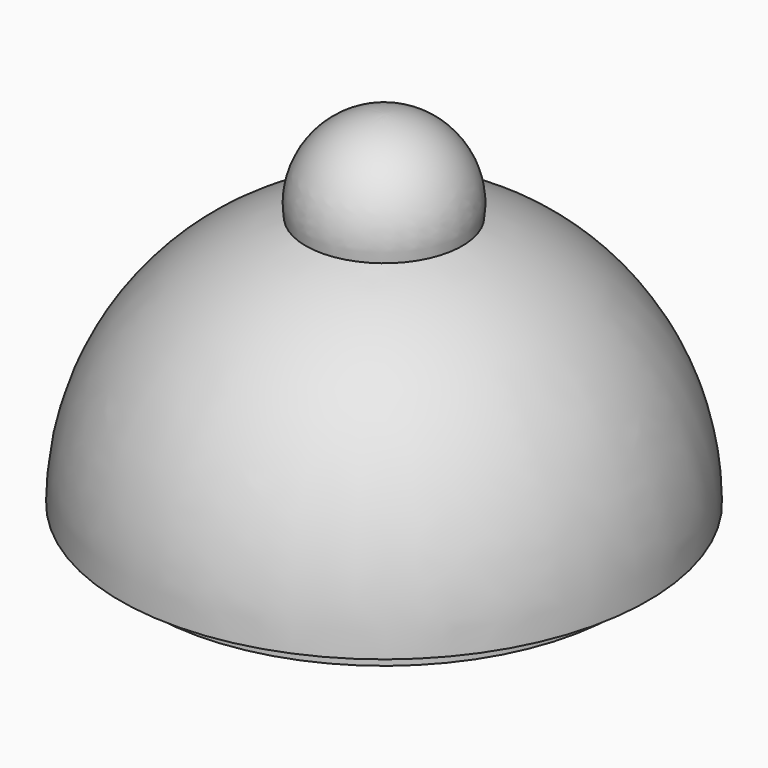
from build123d import *


with BuildPart() as f1:
    # F0 (on Front) → F1 (revolve)
    with BuildSketch(Plane.XZ):
        with BuildLine():
            ThreePointArc((0, 32.5), (-5.687157, 29.889402), (-7.415145, 23.875))
            ThreePointArc((-7.415145, 23.875), (-20.129315, 14.826014), (-25, 0))
            Line((-25, 0), (-22.2, 0))
            Line((-22.2, 0), (-22.2, -2))
            Line((-22.2, -2), (0, -2))
            Line((0, -2), (0, 0))
            Line((0, 0), (0, 25))
            Line((0, 25), (0, 32.5))
        make_face()
    revolve(axis=Axis((0, 0, 12.5), (0, 0, 1)))


solid = f1.part
